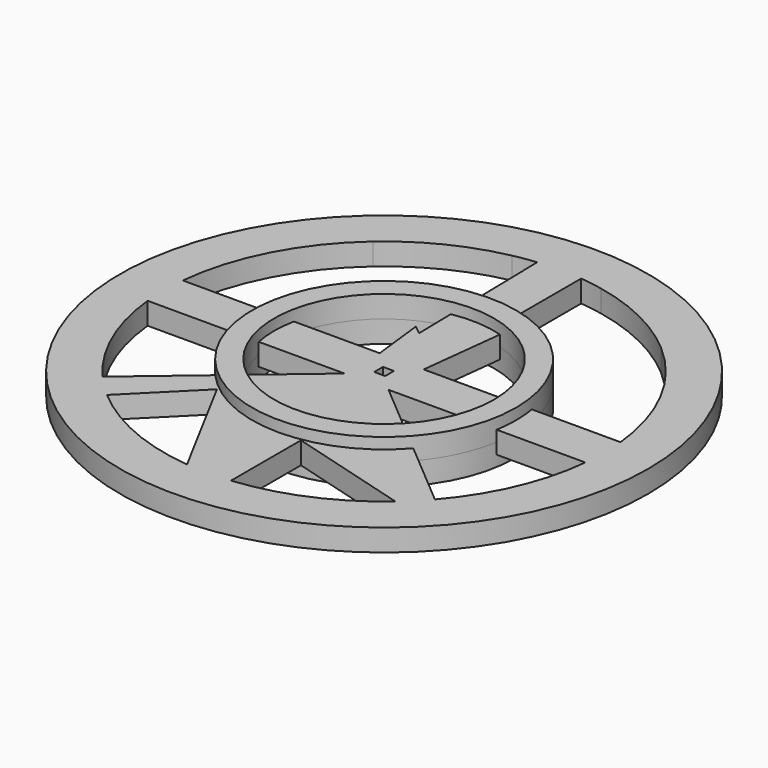
from build123d import *

# Parameters (mm, degrees)
F0_R          = 76.2
F1_DEPTH      = 6.35
F3_R          = 38.1
F3_R_2        = 31.75
F4_DEPTH      = 6.35
F4_DEPTH_BACK = 6.35
F5_W          = 3.175
F5_H          = 3.175
F6_DEPTH      = 12.7


with BuildPart() as f1:
    # F0 (on Top) → F1 (new body)
    with BuildSketch(Plane.XY):
        Circle(F0_R)
        with BuildLine():
            Line((-41.613887, -47.963887), (-23.981943, -30.331943))
            Line((-23.981943, -30.331943), (-6.35, -63.181702))
            ThreePointArc((-6.35, -63.181702), (-25.160069, -58.302838), (-41.613887, -47.963887))
        make_face(mode=Mode.SUBTRACT)
        with BuildLine():
            ThreePointArc((-47.963887, -41.613887), (-58.302838, -25.160069), (-63.181702, -6.35))
            Line((-63.181702, -6.35), (-6.35, -6.35))
            Line((-6.35, -6.35), (-47.963887, -41.613887))
        make_face(mode=Mode.SUBTRACT)
        with BuildLine():
            Line((6.35, -63.181702), (6.35, -37.940851))
            Line((6.35, -37.940851), (41.613887, -47.963887))
            ThreePointArc((41.613887, -47.963887), (25.160069, -58.302838), (6.35, -63.181702))
        make_face(mode=Mode.SUBTRACT)
        with BuildLine():
            Line((47.963887, -41.613887), (6.35, -6.35))
            Line((6.35, -6.35), (63.181702, -6.35))
            ThreePointArc((63.181702, -6.35), (58.302838, -25.160069), (47.963887, -41.613887))
        make_face(mode=Mode.SUBTRACT)
        with BuildLine():
            Line((-6.35, 63.181702), (-5.498498, 19.546218))
            Line((-5.498498, 19.546218), (-8.109563, 21.600755))
            Line((-8.109563, 21.600755), (-6.35, 6.35))
            Line((-6.35, 6.35), (-63.181702, 6.35))
            ThreePointArc((-63.181702, 6.35), (-56.377813, 29.219723), (-41.613887, 47.963887))
            ThreePointArc((-41.613887, 47.963887), (-28.119246, 56.934682), (-12.793478, 62.197885))
            ThreePointArc((-12.793478, 62.197885), (-9.584371, 62.772525), (-6.35, 63.181702))
        make_face(mode=Mode.SUBTRACT)
        with BuildLine():
            Line((10.118387, 39.011938), (6.35, 37.940851))
            Line((6.35, 37.940851), (6.35, 63.181702))
            ThreePointArc((6.35, 63.181702), (9.584371, 62.772525), (12.793478, 62.197885))
            ThreePointArc((12.793478, 62.197885), (28.119246, 56.934682), (41.613887, 47.963887))
            ThreePointArc((41.613887, 47.963887), (56.377813, 29.219723), (63.181702, 6.35))
            Line((63.181702, 6.35), (6.35, 6.35))
            Line((6.35, 6.35), (10.118387, 39.011938))
        make_face(mode=Mode.SUBTRACT)
    extrude(amount=F1_DEPTH)

    # F3 (on offset) → F4 (join, two sides)
    with BuildSketch(Plane.XY.offset(3.175)) as f4_sk:
        Circle(F3_R)
        Circle(F3_R_2, mode=Mode.SUBTRACT)
    extrude(amount=F4_DEPTH)
    extrude(f4_sk.sketch, amount=-F4_DEPTH_BACK)

    # F5 (on Top) → F6 (cut, symmetric)
    with BuildSketch(Plane.XY):
        Rectangle(F5_W, F5_H)
    extrude(amount=F6_DEPTH, both=True, mode=Mode.SUBTRACT)


solid = f1.part
